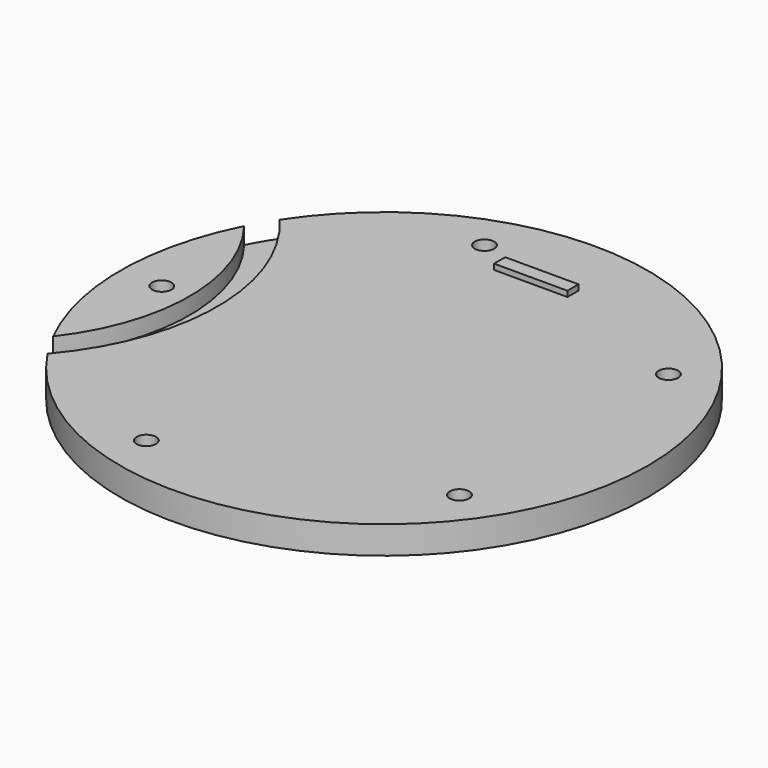
from build123d import *

# Parameters (mm, degrees)
SKETCH008_R     = 47.5
PAD004_DEPTH    = 5
SKETCH009_R     = 40
SKETCH009_R_2   = 35
POCKET002_DEPTH = 3
SKETCH015_R     = 1.75
POCKET008_DEPTH = 5
SKETCH022_W     = 13.2
SKETCH022_H     = 2.5
PAD006_DEPTH    = 1


with BuildPart() as part:
    # Sketch008 → Pad004 (new body)
    with BuildSketch(Plane.XY):
        Circle(SKETCH008_R)
    extrude(amount=PAD004_DEPTH)

    # Sketch009 (on Face3 of Pad004) → Pocket002 (cut)
    with BuildSketch(Plane.XY.offset(5)):
        with Locations((-70, 0)):
            Circle(SKETCH009_R)
        with Locations((-70, 0)):
            Circle(SKETCH009_R_2, mode=Mode.SUBTRACT)
    extrude(amount=-POCKET002_DEPTH, mode=Mode.SUBTRACT)

    # Sketch015 (on Face3 of Pocket002) → Pocket008 (cut)
    with BuildSketch(Plane.XY.offset(5)):
        with Locations((-40, 0)):
            Circle(SKETCH015_R)
        with Locations((-12.363995, 38.041183)):
            Circle(SKETCH015_R)
        with Locations((32.356581, 23.51705)):
            Circle(SKETCH015_R)
        with Locations((32.366826, -23.502949)):
            Circle(SKETCH015_R)
        with Locations((-12.347418, -38.046567)):
            Circle(SKETCH015_R)
    extrude(amount=-POCKET008_DEPTH, mode=Mode.SUBTRACT)

    # Sketch022 (on Face3 of Pocket008) → Pad006 (join)
    with BuildSketch(Plane.XY.offset(5)):
        with Locations((0, 34.25)):
            Rectangle(SKETCH022_W, SKETCH022_H)
    extrude(amount=PAD006_DEPTH)


solid = part.part
